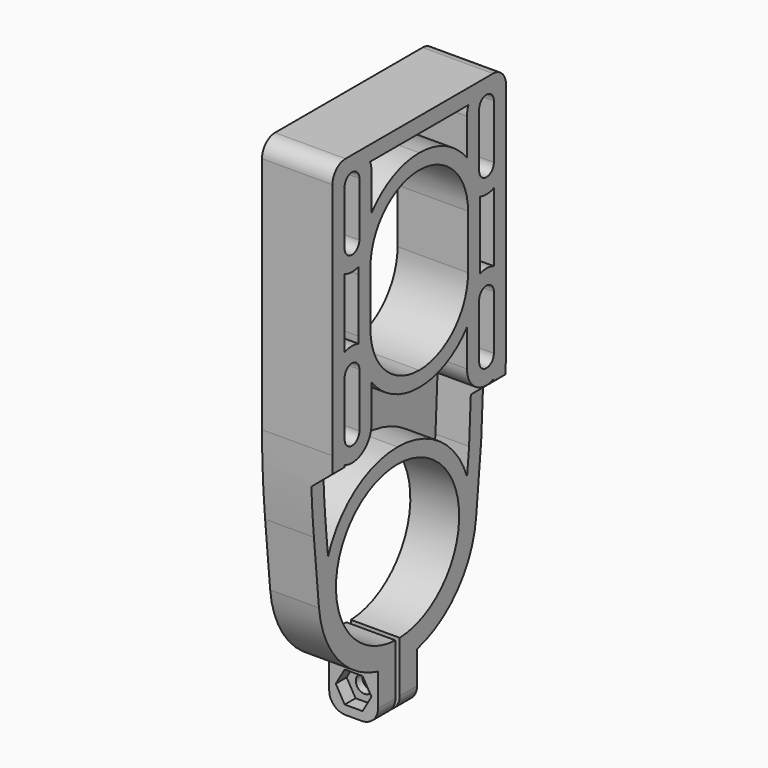
from build123d import *

# Parameters (mm, degrees)
F1_DEPTH = 13
F3_D     = 3.2
F4_T     = -2.8
F6_DEPTH = 40.001
F7_DEPTH = 2.5
F8_R     = 3


with BuildPart() as f1:
    # F0 (on Right) → F1 (new body)
    with BuildSketch(Plane.YZ):
        with BuildLine():
            ThreePointArc((-17, 72), (-19.1213203436, 71.1213203436), (-20, 69))
            Line((-20, 69), (-20, 25))
            ThreePointArc((-20, 25), (-19.8196101249, 17.5795865345), (-19.2788666706, 10.1767037836))
            Line((-19.2788666706, 10.1767037836), (-18.1140558503, -1.7666297441))
            ThreePointArc((-18.1140558503, -1.7666297441), (-13.8130173627, -11.8507616353), (-4.5, -17.6349085623))
            Line((-4.5, -17.6349085623), (-4.5, -26.6349085623))
            Line((-4.5, -26.6349085623), (-0.5, -26.6349085623))
            Line((-0.5, -26.6349085623), (-0.5, -14.1911944529))
            ThreePointArc((-0.5, -14.1911944529), (-14.1977984426, 0.2500387658), (0, 14.2))
            ThreePointArc((0, 14.2), (14.1977984426, 0.2500387658), (0.5, -14.1911944529))
            Line((0.5, -14.1911944529), (0.5, -26.6349085623))
            Line((0.5, -26.6349085623), (4.5, -26.6349085623))
            Line((4.5, -26.6349085623), (4.5, -17.6349085623))
            ThreePointArc((4.5, -17.6349085623), (13.8130173627, -11.8507616353), (18.1140558503, -1.7666297441))
            Line((18.1140558503, -1.7666297441), (19.2788666706, 10.1767037836))
            Line((19.2788666706, 10.1767037836), (20, 25))
            Line((20, 25), (20, 69))
            ThreePointArc((20, 69), (19.1213203436, 71.1213203436), (17, 72))
            Line((17, 72), (0, 72))
            Line((0, 72), (-17, 72))
        make_face()
        with BuildLine():
            Line((-17.2, 26.5), (-17.2, 36.5))
            ThreePointArc((-17.2, 36.5), (-15.5, 38.2), (-13.8, 36.5))
            Line((-13.8, 36.5), (-13.8, 26.5))
            ThreePointArc((-13.8, 26.5), (-15.5, 24.8), (-17.2, 26.5))
        make_face(mode=Mode.SUBTRACT)
        with BuildLine():
            Line((-17.2, 57.5), (-17.2, 67.5))
            ThreePointArc((-17.2, 67.5), (-15.5, 69.2), (-13.8, 67.5))
            Line((-13.8, 67.5), (-13.8, 57.5))
            ThreePointArc((-13.8, 57.5), (-15.5, 55.8), (-17.2, 57.5))
        make_face(mode=Mode.SUBTRACT)
        with BuildLine():
            ThreePointArc((-11.25, 52), (-7.9549512883, 59.9549512883), (0, 63.25))
            ThreePointArc((0, 63.25), (7.9549512883, 59.9549512883), (11.25, 52))
            Line((11.25, 52), (11.25, 42))
            ThreePointArc((11.25, 42), (7.9549512883, 34.0450487117), (0, 30.75))
            ThreePointArc((0, 30.75), (-7.9549512883, 34.0450487117), (-11.25, 42))
            Line((-11.25, 42), (-11.25, 52))
        make_face(mode=Mode.SUBTRACT)
        with BuildLine():
            ThreePointArc((17.2, 26.5), (15.5, 24.8), (13.8, 26.5))
            Line((13.8, 26.5), (13.8, 36.5))
            ThreePointArc((13.8, 36.5), (15.5, 38.2), (17.2, 36.5))
            Line((17.2, 36.5), (17.2, 26.5))
        make_face(mode=Mode.SUBTRACT)
        with BuildLine():
            Line((17.2, 67.5), (17.2, 57.5))
            ThreePointArc((17.2, 57.5), (15.5, 55.8), (13.8, 57.5))
            Line((13.8, 57.5), (13.8, 67.5))
            ThreePointArc((13.8, 67.5), (15.5, 69.2), (17.2, 67.5))
        make_face(mode=Mode.SUBTRACT)
    extrude(amount=F1_DEPTH)

    # F3 (through all)
    with Locations(Plane.XZ.offset(4.5)):
        with Locations((4.5, -22.1349085623)):
            Hole(F3_D / 2)

    # F4
    f4_openings = [f1.faces().sort_by_distance(p)[0] for p in [
        (13, -0.017595, 30.158795),
    ]]
    offset(amount=F4_T, openings=f4_openings)

    # F5 (on face) → F6 (cut, through all)
    with BuildSketch(Plane.XZ.offset(20)):
        Polygon((13, -28), (13, 22), (9, 18.6436014753), (9, -28), align=None)
    extrude(amount=-F6_DEPTH, mode=Mode.SUBTRACT)

    # F2 (on face) → F7 (cut)
    with BuildSketch(Plane.XZ.offset(4.5)):
        Polygon((6.1454482672, -19.2849085623), (2.8545517328, -19.2849085623), (1.2091034656, -22.1349085623), (4.5, -22.1349085623), (4.5, -24.9849085623), (6.1454482672, -24.9849085623), (7.7908965344, -22.1349085623), align=None)
        Polygon((4.5, -22.1349085623), (1.2091034656, -22.1349085623), (2.8545517328, -24.9849085623), (4.5, -24.9849085623), align=None)
    extrude(amount=-F7_DEPTH, mode=Mode.SUBTRACT)

    # F8
    f8_edges = [f1.edges().sort_by_distance(p)[0] for p in [
        (0, -2.5, -26.634909),
        (0, 2.5, -26.634909),
        (9, -2.5, -26.634909),
        (9, 2.5, -26.634909),
    ]]
    fillet(f8_edges, radius=F8_R)


solid = f1.part
